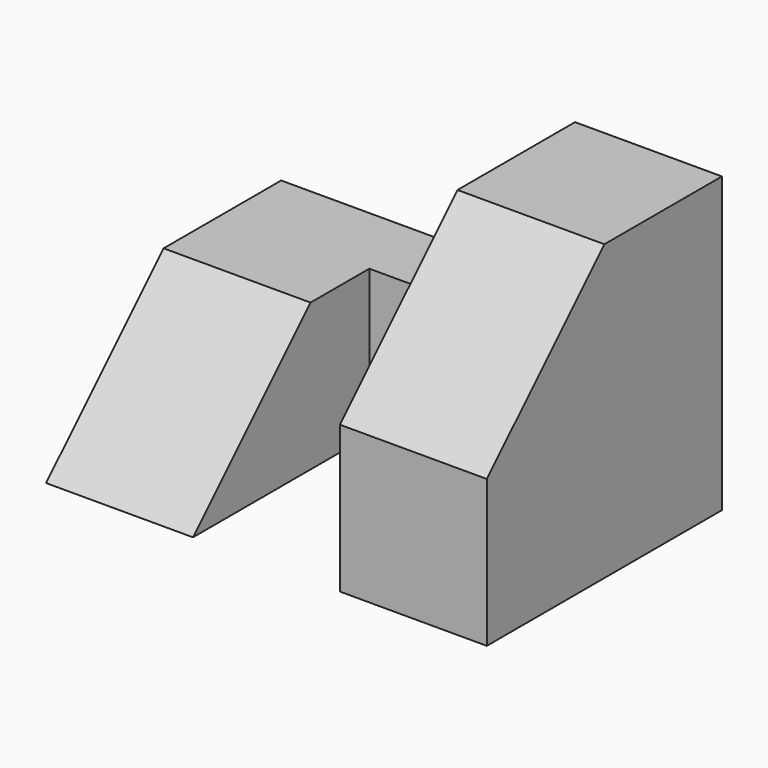
from build123d import *

# Parameters (mm, degrees)
F1_DEPTH = 12.7
F2_W     = 12.7
F2_H     = 12.7
F3_DEPTH = 12.7
F4_W     = 6.35
F4_H     = 12.7
F5_DEPTH = 12.7
F6_W     = 25.4
F6_H     = 25.4
F7_DEPTH = 12.7
F9_DEPTH = 12.7


with BuildPart() as f1:
    # F0 (on Right) → F1 (new body)
    with BuildSketch(Plane.YZ):
        Polygon((12.7, 12.7), (0, 0), (12.7, 0), align=None)
    extrude(amount=F1_DEPTH)

    # F2 (on Right) → F3 (join)
    with BuildSketch(Plane.YZ):
        with Locations((19.05, 6.35)):
            Rectangle(F2_W, F2_H)
    extrude(amount=F3_DEPTH)

    # F4 (on face) → F5 (join)
    with BuildSketch(Plane.YZ.offset(12.7)):
        with Locations((22.225, 6.35)):
            Rectangle(F4_W, F4_H)
    extrude(amount=F5_DEPTH)

    # F6 (on face) → F7 (join)
    with BuildSketch(Plane.YZ.offset(25.4)):
        with Locations((12.7, 12.7)):
            Rectangle(F6_W, F6_H)
    extrude(amount=F7_DEPTH)

    # F8 (on face) → F9 (cut)
    with BuildSketch(Plane.YZ.offset(38.1)):
        Polygon((0, 25.4), (0, 12.7), (12.7, 25.4), align=None)
    extrude(amount=-F9_DEPTH, mode=Mode.SUBTRACT)


solid = f1.part
